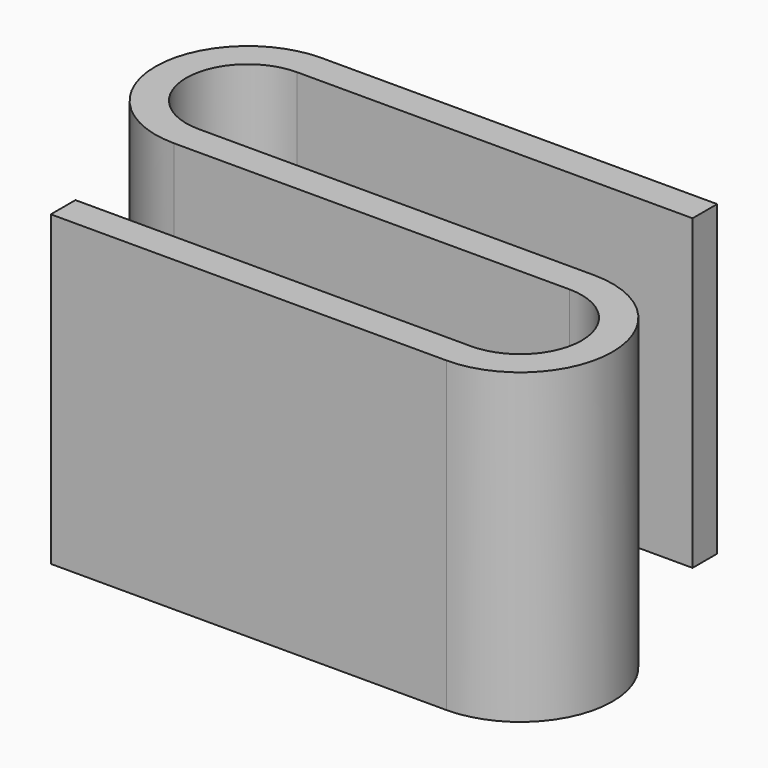
from build123d import *

# Parameters (mm, degrees)
F1_DEPTH = 20


with BuildPart() as f1:
    # F0 (on Top) → F1 (new body)
    with BuildSketch(Plane.XY):
        with BuildLine():
            ThreePointArc((-10.077107, -0.241729), (-14.077107, 3.758271), (-10.077107, 7.758271))
            Line((-10.077107, 7.758271), (15.624578, 7.758271))
            Line((15.624578, 7.758271), (15.624578, 9.758271))
            Line((15.624578, 9.758271), (-10.077107, 9.758271))
            ThreePointArc((-10.077107, 9.758271), (-16.077107, 3.758271), (-10.077107, -2.241729))
            Line((-10.077107, -2.241729), (15.624578, -2.241729))
            ThreePointArc((15.624578, -2.241729), (19.624578, -6.241729), (15.624578, -10.241729))
            Line((15.624578, -10.241729), (-10.077107, -10.241729))
            Line((-10.077107, -10.241729), (-10.077107, -12.241729))
            Line((-10.077107, -12.241729), (15.624578, -12.241729))
            ThreePointArc((15.624578, -12.241729), (21.624578, -6.241729), (15.624578, -0.241729))
            Line((15.624578, -0.241729), (-10.077107, -0.241729))
        make_face()
    extrude(amount=F1_DEPTH)


solid = f1.part
